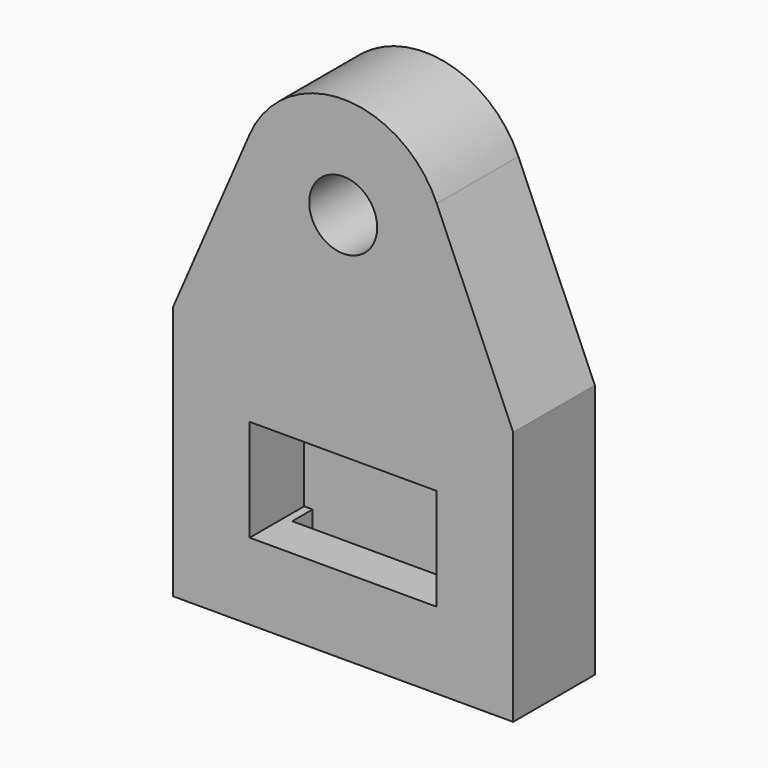
from build123d import *

# Parameters (mm, degrees)
F0_R     = 2
F0_W     = 16
F0_H     = 12.7209685743
F0_W_2   = 10
F0_H_2   = 5
F1_DEPTH = 6
F3_W     = 10
F3_H     = 1.5
F4_DEPTH = 25
F5_W     = 11
F5_H     = 6
F5_W_2   = 10
F5_H_2   = 5
F6_DEPTH = 4


with BuildPart() as f1:
    # F0 (on Front) → F1 (new body)
    with BuildSketch(Plane.XZ):
        with BuildLine():
            ThreePointArc((-4, 23), (-4.1246826636, 24.216818062), (-4.493548732, 25.383064085))
            ThreePointArc((-4.493548732, 25.383064085), (-10, 29), (-15.506451268, 25.383064085))
            ThreePointArc((-15.506451268, 25.383064085), (-11.216818062, 17.1246826636), (-4, 23))
        make_face()
        with Locations((-10, 23)):
            Circle(F0_R, mode=Mode.SUBTRACT)
        with BuildLine():
            Line((-20, 15), (0, 15))
            Line((0, 15), (-4.493548732, 25.383064085))
            ThreePointArc((-4.493548732, 25.383064085), (-4.1246826636, 24.216818062), (-4, 23))
            ThreePointArc((-4, 23), (-11.216818062, 17.1246826636), (-15.506451268, 25.383064085))
            Line((-15.506451268, 25.383064085), (-20, 15))
        make_face()
        Polygon((-2, 0), (0, 0), (0, 15), (-20, 15), (-20, 0), (-18, 0), (-18, 12.7209685743), (-2, 12.7209685743), align=None)
        with Locations((-10, 6.3604842871)):
            Rectangle(F0_W, F0_H)
        with Locations((-10, 7.5)):
            Rectangle(F0_W_2, F0_H_2, mode=Mode.SUBTRACT)
        with Locations((-10, 7.5)):
            Rectangle(F0_W_2, F0_H_2)
    extrude(amount=F1_DEPTH)

    # F3 (on line) → F4 (cut)
    with BuildSketch(Plane(origin=(0, 0, 12.7209685743), x_dir=(1, 0, 0), z_dir=(0, 0, -1))):
        with Locations((-10, 2.75)):
            Rectangle(F3_W, F3_H)
    extrude(amount=F4_DEPTH, mode=Mode.SUBTRACT)

    # F5 (on face) → F6 (cut)
    with BuildSketch(Plane.XZ.offset(6)):
        with Locations((-10, 7.5)):
            Rectangle(F5_W, F5_H)
        with Locations((-10, 7.5)):
            Rectangle(F5_W_2, F5_H_2, mode=Mode.SUBTRACT)
        with Locations((-10, 7.5)):
            Rectangle(F5_W_2, F5_H_2)
    extrude(amount=-F6_DEPTH, mode=Mode.SUBTRACT)


solid = f1.part
